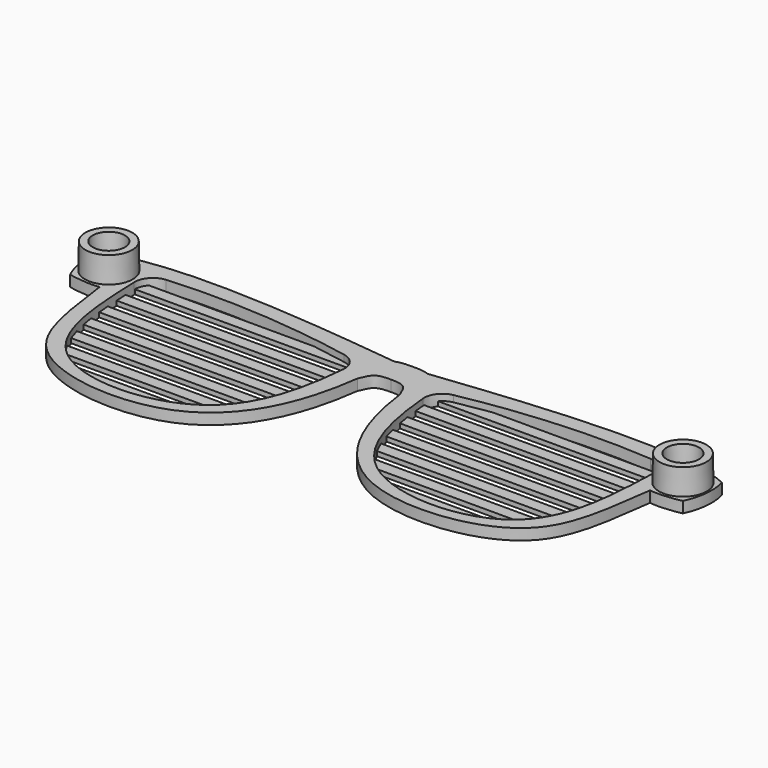
from build123d import *

# Parameters (mm, degrees)
F0_R     = 4.2545
F1_DEPTH = 3.048
F2_R     = 5.08
F3_W     = 65.2807955909
F3_H     = 3.302
F3_W_2   = 64.1696436953
F3_W_3   = 62.6255638493
F3_W_4   = 60.2943286079
F3_W_5   = 56.8069545572
F3_W_6   = 50.8615280304
F3_W_7   = 37.3823195696
F4_DEPTH = 1.27


with BuildPart() as f1:
    # F0 (on Top) → F1 (new body)
    with BuildSketch(Plane.XY):
        with BuildLine():
            Line((0, -8.8730009273), (0, -1.2523292311))
            add(Edge.make_bspline(
                [(0, -1.2523292311), (-1.4292717283, -1.2614199668), (-2.9572113157, -1.2042468041), (-4.5694260428, -1.8386781448)],
                knots=[0.0019069089, 0.0019069089, 0.0019069089, 0.0019069089, 4.6086544498, 4.6086544498, 4.6086544498, 4.6086544498], degree=3))
            add(Edge.make_bspline(
                [(-4.5694260428, -1.8386781448), (-23.0843636902, 0.1857081911), (-68.9428523183, 6.064933259), (-85.9333723783, -1.8386781448)],
                knots=[0, 0, 0, 0, 81.3639463355, 81.3639463355, 81.3639463355, 81.3639463355], degree=3))
            add(Edge.make_bspline(
                [(-85.9333723783, -1.8386781448), (-87.0814593515, -5.9048447471), (-86.3815992926, -10.3425437278), (-84.7224071622, -13.8138355687)],
                knots=[0, 0, 0, 0, 12.0362299779, 12.0362299779, 12.0362299779, 12.0362299779], degree=3))
            add(Edge.make_bspline(
                [(-84.7224071622, -13.8138355687), (-83.0701679625, -14.2861218212), (-77.9287879663, -14.8408171342), (-76.1110559106, -14.352045022)],
                knots=[0, 0, 0, 0, 8.6281539042, 8.6281539042, 8.6281539042, 8.6281539042], degree=3))
            add(Edge.make_bspline(
                [(-76.1110559106, -14.352045022), (-74.0379554043, -29.4360120441), (-71.9881603445, -50.8545666942), (-21.5287182005, -56.1706023297), (-8.3148330585, -31.3872885131), (-5.9164743883, -13.0610809346)],
                knots=[0, 0, 0, 0, 0.3150011717, 0.6467229326, 1, 1, 1, 1], degree=3))
            add(Edge.make_bspline(
                [(-5.9164743883, -13.0610809346), (-4.5382474029, -9.8770353113), (-4.35093372, -8.8730009273), (0, -8.8730009273)],
                knots=[0, 0, 0, 0, 7.2487711604, 7.2487711604, 7.2487711604, 7.2487711604], degree=3))
        make_face()
        with BuildLine():
            add(Edge.make_bspline(
                [(-71.8333795667, -3.2109194435), (-50.6750158966, -1.0436276207), (-29.6205928973, -2.9427556917), (-10.672422658, -7.01909621)],
                knots=[0, 0, 0, 0, 61.2793999666, 61.2793999666, 61.2793999666, 61.2793999666], degree=3))
            add(Edge.make_bspline(
                [(-10.672422658, -7.01909621), (-11.5552002954, -21.9885636193), (-16.4513738609, -50.7770592807), (-71.8775842024, -50.9692361726), (-71.2377431916, -18.4418388879), (-71.8333795667, -3.2109194435)],
                knots=[0, 0, 0, 0, 0.3334671903, 0.6588579594, 1, 1, 1, 1], degree=3))
        make_face(mode=Mode.SUBTRACT)
        with Locations((-79.375, -7.1177900798)):
            Circle(F0_R, mode=Mode.SUBTRACT)
    extrude(amount=F1_DEPTH)

    # F2
    f2_edges = [f1.edges().sort_by_distance(p)[0] for p in [
        (-71.83338, -3.210919, 1.524),
        (-10.672423, -7.019096, 1.524),
    ]]
    fillet(f2_edges, radius=F2_R)

    # F3 (on Top) → F4 (join)
    with BuildSketch(Plane.XY):
        with Locations((-40.2190175513, -6.1319849906)):
            Rectangle(F3_W, F3_H)
        with Locations((-41.2148298797, -12.7359849906)):
            Rectangle(F3_W_2, F3_H)
        with Locations((-41.6915302244, -19.3399849906)):
            Rectangle(F3_W_3, F3_H)
        with Locations((-41.7355327697, -25.9439849906)):
            Rectangle(F3_W_4, F3_H)
        with Locations((-41.8382631269, -32.5479849906)):
            Rectangle(F3_W_5, F3_H)
        with Locations((-42.6865061181, -39.1519849906)):
            Rectangle(F3_W_6, F3_H)
        with Locations((-43.0413708091, -45.7559849906)):
            Rectangle(F3_W_7, F3_H)
    extrude(amount=F4_DEPTH)

    # F8 (on plane+point) → F9 (revolve)
    with BuildSketch(Plane.XZ.offset(7.1177900798)):
        Polygon((-83.82, 10.16), (-85.852, 10.16), (-86.036877988, 0), (-83.439, 0), align=None)
    revolve(axis=Axis((-79.375, -7.1177900798, 2.4181767367), (0, 0, -1)))

    # F10: F1 across plane


with BuildPart() as f1_1:
    add(f1.part)
    add(f1.part.mirror(Plane.YZ))


solid = f1_1.part
